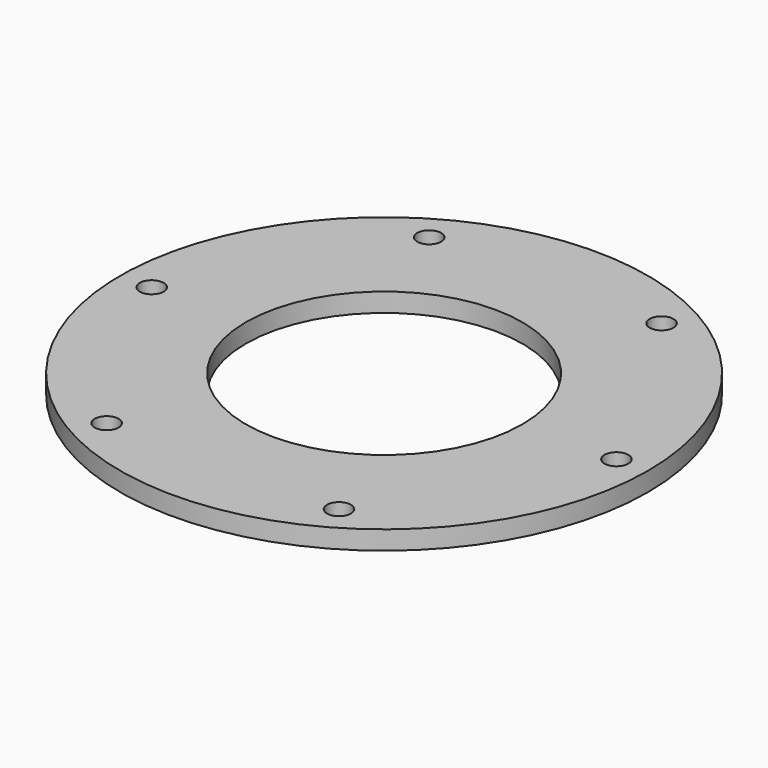
from build123d import *

# Parameters (mm, degrees)
SKETCH010_R      = 9.5
EXTRUDE004_DEPTH = 30
ARRAY003_COUNT   = 6
SKETCH005_W      = 100
SKETCH005_H      = 15


with BuildPart() as array003:
    # Sketch010 (on Face3 of Revolve) → Extrude004 (new body)
    with BuildSketch(Plane.XY.offset(15)):
        with Locations((185, -0.1655)):
            Circle(SKETCH010_R)
    extrude(amount=-EXTRUDE004_DEPTH)

    # Array003: Array003 ×6 about axis
    array003_axis = Axis((0, 0, 590.09), (0, 0, 1))


with BuildPart() as array003_1:
    add(array003.part)
    for i in range(1, ARRAY003_COUNT):
        add(array003.part.rotate(array003_axis, i * 360 / ARRAY003_COUNT))


with BuildPart() as cut005:
    # Sketch005 → Revolve (revolve)
    with BuildSketch(Plane.XZ):
        with Locations((160, 7.5)):
            Rectangle(SKETCH005_W, SKETCH005_H)
    revolve(axis=Axis((0, 0, 0), (0, 0, 1)))

    # Cut005: cut Array003
    add(array003_1.part, mode=Mode.SUBTRACT)


solid = cut005.part
